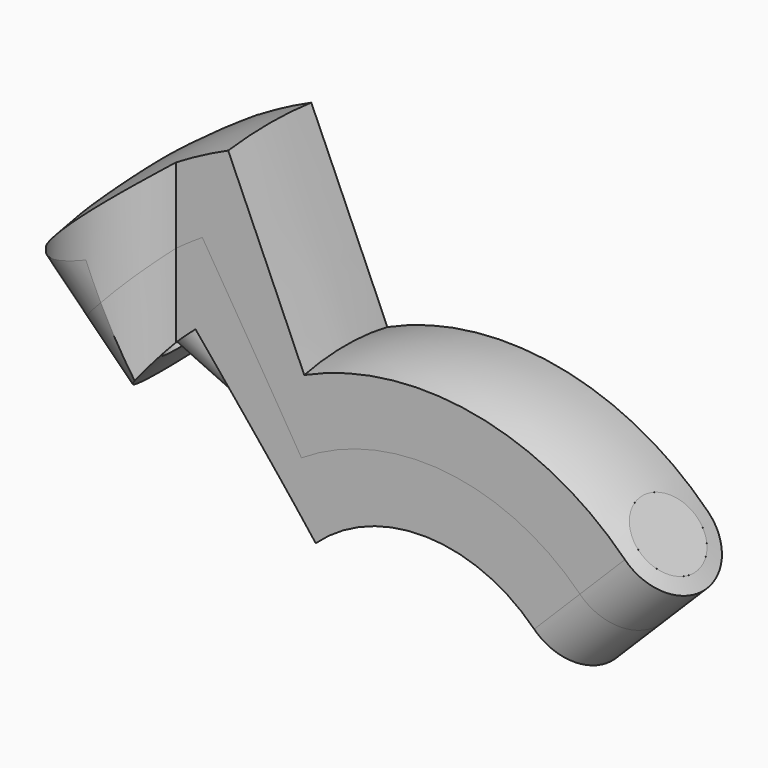
from build123d import *

# Parameters (mm, degrees)
F1_ANGLE_BACK = 45
F1_ANGLE      = 90
F3_ANGLE_BACK = 45
F3_ANGLE      = 90
F5_DEPTH      = 53.3703256355
F8_R          = 6.35
F9_DEPTH      = 71.8637854118
F12_R         = 4.445
F13_DEPTH     = 62.88352922
F14_W         = 4.445
F14_H         = 15.4532250881


with BuildPart() as f1:
    # F0 (on Front) → F1 (revolve)
    with BuildSketch(Plane.XZ, mode=Mode.PRIVATE) as f1_sk:
        with BuildLine():
            ThreePointArc((-50.8, 0), (-44.4306811227, 24.6283287085), (-26.919898623, 43.0808432847))
            Line((-26.919898623, 43.0808432847), (-14.8059442427, 23.6944638066))
            ThreePointArc((-14.8059442427, 23.6944638066), (13.5455807897, 24.4368746175), (27.94, 0))
            Line((27.94, 0), (35.56, 0))
            ThreePointArc((35.56, 0), (19.3673640851, 29.8231253961), (-14.4635550278, 32.4856764738))
            Line((-14.4635550278, 32.4856764738), (-23.7615546885, 53.3693256355))
            ThreePointArc((-23.7615546885, 53.3693256355), (-48.9951345794, 31.8178124256), (-58.42, 0))
            Line((-58.42, 0), (-50.8, 0))
        make_face()
    revolve(f1_sk.sketch.rotate(Axis((-1.0416697055, 0, 0), (1, 0, 0)), -F1_ANGLE_BACK), axis=Axis((-1.0416697055, 0, 0), (1, 0, 0)), revolution_arc=F1_ANGLE)


with BuildPart() as f3:
    # F2 (on Front) → F3 (revolve)
    with BuildSketch(Plane.XZ, mode=Mode.PRIVATE) as f3_sk:
        with BuildLine():
            ThreePointArc((-26.919898623, 43.0808432847), (-44.4306811227, 24.6283287085), (-50.8, 0))
            Line((-50.8, 0), (-43.18, 0))
            ThreePointArc((-43.18, 0), (-39.1343702442, 18.248656542), (-27.7555689863, 33.0777990539))
            Line((-27.7555689863, 33.0777990539), (-13.0614442288, 15.5660230842))
            ThreePointArc((-13.0614442288, 15.5660230842), (8.5876030786, 18.4161742326), (20.32, 0))
            Line((20.32, 0), (27.94, 0))
            ThreePointArc((27.94, 0), (13.5455807897, 24.4368746175), (-14.8059442427, 23.6944638066))
            Line((-14.8059442427, 23.6944638066), (-26.919898623, 43.0808432847))
        make_face()
    revolve(f3_sk.sketch.rotate(Axis((-21.59, 0, 0), (-1, 0, 0)), -F3_ANGLE_BACK), axis=Axis((-21.59, 0, 0), (-1, 0, 0)), revolution_arc=F3_ANGLE)


with BuildPart() as f5_tool:
    # F4 (on Top) → F5 (new body, through all)
    with BuildSketch(Plane.XY):
        with BuildLine():
            Line((50.8, 0), (50.8, 6.35))
            Line((50.8, 6.35), (-30.168852542, 6.35))
            ThreePointArc((-30.168852542, 6.35), (-41.4649028089, 9.5866067556), (-48.26, 0))
            ThreePointArc((-48.26, 0), (-41.4649028089, -9.5866067556), (-30.168852542, -6.35))
            Line((-30.168852542, -6.35), (50.8, -6.35))
            Line((50.8, -6.35), (50.8, 0))
        make_face()
    extrude(amount=F5_DEPTH)


with BuildPart() as f1_1:
    add(f1.part)

    # F5: intersect by f5_tool
    add(f5_tool.part, mode=Mode.INTERSECT)


with BuildPart() as f3_1:
    add(f3.part)

    # F5: intersect by f5_tool
    add(f5_tool.part, mode=Mode.INTERSECT)


with BuildPart() as f9_tool:
    # F8 (on face) → F9 (new body, through all)
    with BuildSketch(Plane(origin=(0, 0, 0), x_dir=(0, -1, 0), z_dir=(-0.7071067812, 0, 0.7071067812))):
        with BuildLine():
            ThreePointArc((10.16, 0), (0, -10.16), (-10.16, 0))
            Line((-10.16, 0), (-35.56, 0))
            ThreePointArc((-35.56, 0), (0, -35.56), (35.56, 0))
            Line((35.56, 0), (10.16, 0))
        make_face()
        Circle(F8_R)
    extrude(amount=F9_DEPTH)


with BuildPart() as f1_2:
    add(f1_1.part)

    # F9: cut by f9_tool
    add(f9_tool.part, mode=Mode.SUBTRACT)

    # F10 (on Front) → F11 (revolve)
    with BuildSketch(Plane.XZ):
        with BuildLine():
            Line((-32.9288943607, 41.9091504817), (-36.5742963236, 45.5545524447))
            Line((-36.5742963236, 45.5545524447), (-41.0644243841, 41.0644243841))
            Line((-41.0644243841, 41.0644243841), (-18.6137840815, 18.6137840815))
            Line((-18.6137840815, 18.6137840815), (-29.9442904802, 38.0375093364))
            ThreePointArc((-29.9442904802, 38.0375093364), (-31.3118872081, 40.069463731), (-32.9288943607, 41.9091504817))
        make_face()
    revolve(axis=Axis((-32.0308884473, 0, 32.0308884473), (-0.7071067812, 0, 0.7071067812)))


with BuildPart() as f3_2:
    add(f3_1.part)

    # F9: cut by f9_tool
    add(f9_tool.part, mode=Mode.SUBTRACT)


with BuildPart() as f13_tool:
    # F12 (on face) → F13 (new body, through all)
    with BuildSketch(Plane(origin=(0, 0, 0), x_dir=(0.7071067812, 0, -0.7071067812), z_dir=(0.7071067812, 0, 0.7071067812))):
        with BuildLine():
            ThreePointArc((0, 6.35), (6.35, 0), (0, -6.35))
            Line((0, -6.35), (0, -38.5235828228))
            ThreePointArc((0, -38.5235828228), (38.5235828228, 0), (0, 38.5235828228))
            Line((0, 38.5235828228), (0, 6.35))
        make_face()
        Circle(F12_R)
    extrude(amount=F13_DEPTH)


with BuildPart() as f1_3:
    add(f1_2.part)

    # F13: cut by f13_tool
    add(f13_tool.part, mode=Mode.SUBTRACT)


with BuildPart() as f3_3:
    add(f3_2.part)

    # F13: cut by f13_tool
    add(f13_tool.part, mode=Mode.SUBTRACT)

    # F14 (on face) → F15 (revolve)
    with BuildSketch(Plane(origin=(0, 0, 0), x_dir=(0, -1, 0), z_dir=(-0.7071067812, 0, 0.7071067812))):
        with Locations((2.2225, 27.554481189)):
            Rectangle(F14_W, F14_H)
    revolve(axis=Axis((28.8115050644, 0, 28.8115050644), (0.7071067812, 0, 0.7071067812)))


solid = Compound([f1_3.part, f3_3.part])
